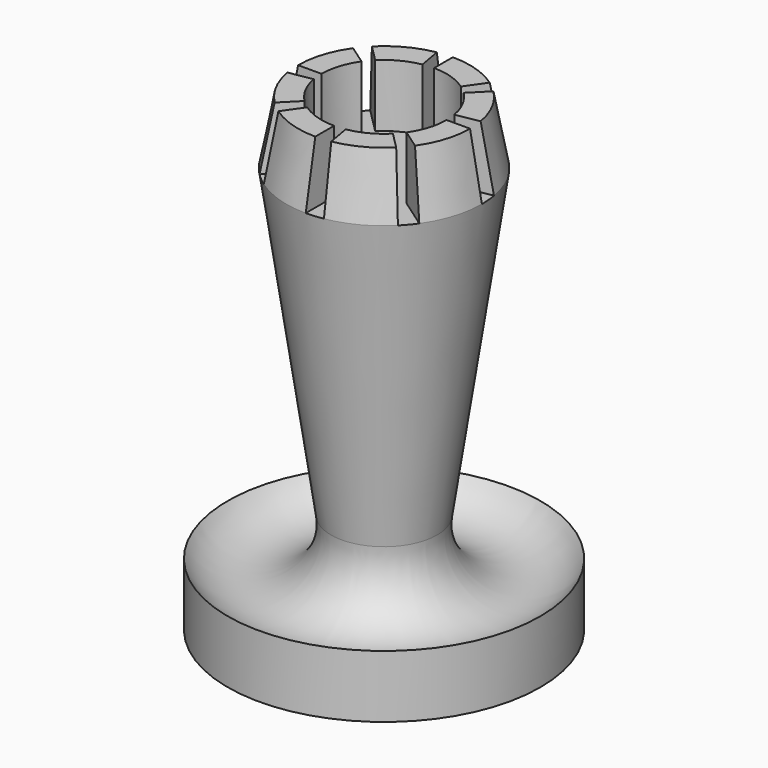
from build123d import *

# Parameters (mm, degrees)
F3_DEPTH = 5.08


with BuildPart() as f1:
    # F0 (on Front) → F1 (revolve)
    with BuildSketch(Plane.XZ):
        with BuildLine():
            Line((0, 38.1), (0, 0))
            Line((0, 0), (12.7, 0))
            Line((12.7, 0), (12.7, 5.08))
            ThreePointArc((12.7, 5.08), (7.25605, 3.226556), (4.318, 8.17021))
            Line((4.318, 8.17021), (7.9502, 33.02))
            Line((7.9502, 33.02), (6.985, 38.1))
            Line((6.985, 38.1), (0, 38.1))
        make_face()
    revolve(axis=Axis((0, 0, 19.05), (0, 0, 1)))

    # F2 (on face) → F3 (cut)
    with BuildSketch(Plane.XY.offset(38.1)):
        with BuildLine():
            ThreePointArc((4.161292, -2.913768), (4.844882, -1.527585), (5.08, 0))
            ThreePointArc((5.08, 0), (5.060669, 0.442751), (5.002823, 0.882133))
            ThreePointArc((5.002823, 0.882133), (4.506015, 2.345683), (3.592102, 3.592102))
            ThreePointArc((3.592102, 3.592102), (3.265361, 3.891506), (2.913768, 4.161292))
            ThreePointArc((2.913768, 4.161292), (1.527585, 4.844882), (0, 5.08))
            ThreePointArc((0, 5.08), (-0.442751, 5.060669), (-0.882133, 5.002823))
            ThreePointArc((-0.882133, 5.002823), (-2.345683, 4.506015), (-3.592102, 3.592102))
            ThreePointArc((-3.592102, 3.592102), (-3.891506, 3.265361), (-4.161292, 2.913768))
            ThreePointArc((-4.161292, 2.913768), (-4.844882, 1.527585), (-5.08, 0))
            ThreePointArc((-5.08, 0), (-5.060669, -0.442751), (-5.002823, -0.882133))
            ThreePointArc((-5.002823, -0.882133), (-4.506015, -2.345683), (-3.592102, -3.592102))
            ThreePointArc((-3.592102, -3.592102), (-3.265361, -3.891506), (-2.913768, -4.161292))
            ThreePointArc((-2.913768, -4.161292), (-1.527585, -4.844882), (0, -5.08))
            ThreePointArc((0, -5.08), (0.442751, -5.060669), (0.882133, -5.002823))
            ThreePointArc((0.882133, -5.002823), (2.345683, -4.506015), (3.592102, -3.592102))
            ThreePointArc((3.592102, -3.592102), (3.891506, -3.265361), (4.161292, -2.913768))
        make_face()
        with BuildLine():
            ThreePointArc((5.002823, 0.882133), (5.060669, 0.442751), (5.08, 0))
            Line((5.08, 0), (7.9502, 0))
            ThreePointArc((7.9502, 0), (7.919947, 0.692906), (7.829419, 1.380538))
            Line((7.829419, 1.380538), (5.002823, 0.882133))
        make_face()
        with BuildLine():
            Line((6.512423, -4.560047), (4.161292, -2.913768))
            ThreePointArc((4.161292, -2.913768), (3.891506, -3.265361), (3.592102, -3.592102))
            Line((3.592102, -3.592102), (5.62164, -5.62164))
            ThreePointArc((5.62164, -5.62164), (6.090207, -5.11029), (6.512423, -4.560047))
        make_face()
        with BuildLine():
            ThreePointArc((2.913768, 4.161292), (3.265361, 3.891506), (3.592102, 3.592102))
            Line((3.592102, 3.592102), (5.62164, 5.62164))
            ThreePointArc((5.62164, 5.62164), (5.11029, 6.090207), (4.560047, 6.512423))
            Line((4.560047, 6.512423), (2.913768, 4.161292))
        make_face()
        with BuildLine():
            Line((1.380538, -7.829419), (0.882133, -5.002823))
            ThreePointArc((0.882133, -5.002823), (0.442751, -5.060669), (0, -5.08))
            Line((0, -5.08), (0, -7.9502))
            ThreePointArc((0, -7.9502), (0.692906, -7.919947), (1.380538, -7.829419))
        make_face()
        with BuildLine():
            ThreePointArc((-0.882133, 5.002823), (-0.442751, 5.060669), (0, 5.08))
            Line((0, 5.08), (0, 7.9502))
            ThreePointArc((0, 7.9502), (-0.692906, 7.919947), (-1.380538, 7.829419))
            Line((-1.380538, 7.829419), (-0.882133, 5.002823))
        make_face()
        with BuildLine():
            Line((-4.560047, -6.512423), (-2.913768, -4.161292))
            ThreePointArc((-2.913768, -4.161292), (-3.265361, -3.891506), (-3.592102, -3.592102))
            Line((-3.592102, -3.592102), (-5.62164, -5.62164))
            ThreePointArc((-5.62164, -5.62164), (-5.11029, -6.090207), (-4.560047, -6.512423))
        make_face()
        with BuildLine():
            ThreePointArc((-4.161292, 2.913768), (-3.891506, 3.265361), (-3.592102, 3.592102))
            Line((-3.592102, 3.592102), (-5.62164, 5.62164))
            ThreePointArc((-5.62164, 5.62164), (-6.090207, 5.11029), (-6.512423, 4.560047))
            Line((-6.512423, 4.560047), (-4.161292, 2.913768))
        make_face()
        with BuildLine():
            Line((-7.829419, -1.380538), (-5.002823, -0.882133))
            ThreePointArc((-5.002823, -0.882133), (-5.060669, -0.442751), (-5.08, 0))
            Line((-5.08, 0), (-7.9502, 0))
            ThreePointArc((-7.9502, 0), (-7.919947, -0.692906), (-7.829419, -1.380538))
        make_face()
    extrude(amount=-F3_DEPTH, mode=Mode.SUBTRACT)


solid = f1.part
